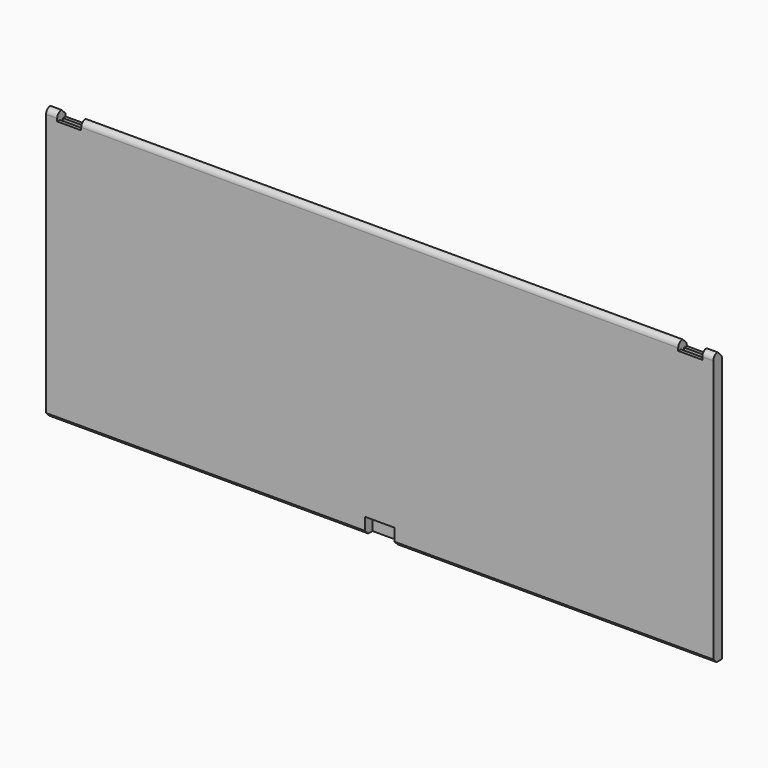
from build123d import *

# Parameters (mm, degrees)
F0_W      = 250
F0_H      = 100
F1_DEPTH  = 2
F4_DEPTH  = 250
F5_R      = 1.7
F3_W      = 9
F3_H      = 4.2
F8_DEPTH  = 1
F9_W      = 9
F9_H      = 1.5
F10_DEPTH = 6
F11_DEPTH = 25.4
F12_DEPTH = 6
F13_W     = 11
F13_H     = 3.5
F14_DEPTH = 6.125
F15_SIZE  = 1.5


with BuildPart() as f1:
    # F0 (on Front) → F1 (new body, symmetric)
    with BuildSketch(Plane.XZ):
        Rectangle(F0_W, F0_H)
    extrude(amount=F1_DEPTH, both=True)

    # F2 (on face) → F4 (join)
    with BuildSketch(Plane.YZ.offset(125)):
        with BuildLine():
            Line((1.9994144921, 50.048391), (0, 52))
            ThreePointArc((0, 52), (-1.4142135624, 51.4142135624), (-2, 50))
            Line((-2, 50), (2, 50))
            ThreePointArc((2, 50), (1.9998536177, 50.024197271), (1.9994144921, 50.048391))
        make_face()
    extrude(amount=-F4_DEPTH)

    # F5
    f5_edges = [f1.edges().sort_by_distance(p)[0] for p in [
        (0, 1.999414, 50.048391),
    ]]
    fillet(f5_edges, radius=F5_R)


with BuildPart() as f6_1:
    # F6: copy of F1
    add(f1.part)


with BuildPart() as f1_1:
    add(f1.part)

    # F3 (on face) → F8 (cut)
    with BuildSketch(Plane.XY.offset(50)):
        with Locations((-116.3319962025, 7.49e-08)):
            Rectangle(F3_W, F3_H)
        with Locations((116.3319962025, 7.49e-08)):
            Rectangle(F3_W, F3_H)
    extrude(amount=-F8_DEPTH, mode=Mode.SUBTRACT)

    # F9 (on face) → F10 (cut)
    with BuildSketch(Plane.XY.offset(49)):
        with Locations((-116.3319962025, -6.5e-09)):
            Rectangle(F9_W, F9_H)
    extrude(amount=-F10_DEPTH, mode=Mode.SUBTRACT)

    # F3 (on face) → F11 (cut)
    with BuildSketch(Plane.XY.offset(50)):
        with Locations((-116.3319962025, 7.49e-08)):
            Rectangle(F3_W, F3_H)
        with Locations((116.3319962025, 7.49e-08)):
            Rectangle(F3_W, F3_H)
    extrude(amount=F11_DEPTH, mode=Mode.SUBTRACT)

    # F9 (on face) → F12 (cut)
    with BuildSketch(Plane.XY.offset(49)):
        with Locations((-116.3319962025, -6.5e-09)):
            Rectangle(F9_W, F9_H)
        with Locations((116.3319962025, -6.5e-09)):
            Rectangle(F9_W, F9_H)
    extrude(amount=-F12_DEPTH, mode=Mode.SUBTRACT)

    # F13 (on face) → F14 (cut)
    with BuildSketch(Plane(origin=(0, 0, -50), x_dir=(1, 0, 0), z_dir=(0, 0, -1))):
        with Locations((0, 0.25)):
            Rectangle(F13_W, F13_H)
    extrude(amount=-F14_DEPTH, mode=Mode.SUBTRACT)

    # F15
    f15_edges = [f1_1.edges().sort_by_distance(p)[0] for p in [
        (65.25, -2, -50),
        (-65.25, -2, -50),
    ]]
    chamfer(f15_edges, length=F15_SIZE)


solid = f1_1.part
